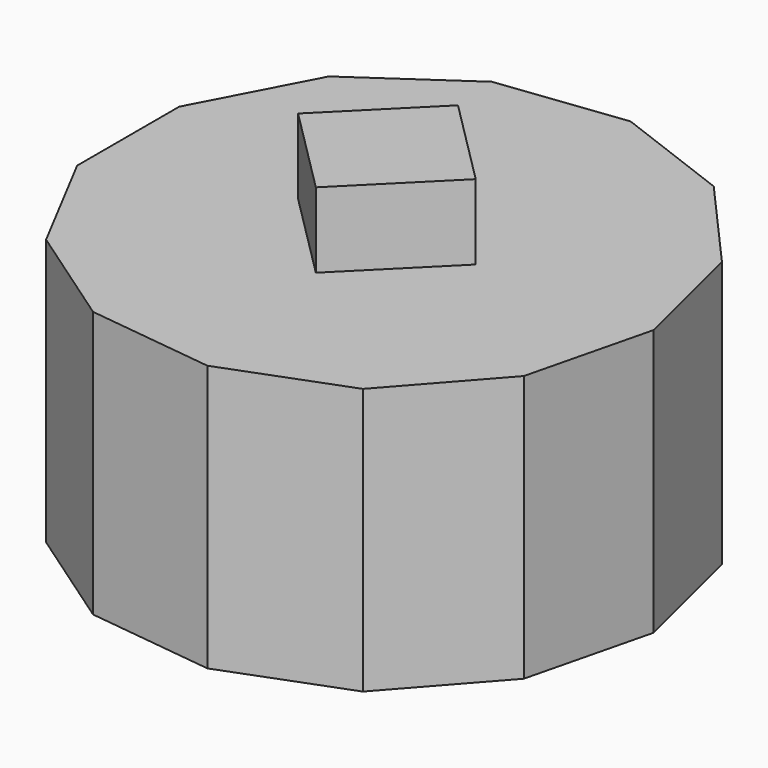
from build123d import *

# Parameters (mm, degrees)
PRISM_DEPTH    = 78
PRISM002_DEPTH = 100


with BuildPart() as prism:
    # Prism → Prism (new body)
    with BuildSketch(Plane.XY):
        Polygon((78, 0), (69.06557, 36.248407), (44.30905, 64.192742), (9.401861, 77.431292), (-27.659181, 72.931267), (-58.383838, 51.723567), (-75.733462, 18.666622), (-75.733462, -18.666622), (-58.383838, -51.723567), (-27.659181, -72.931267), (9.401861, -77.431292), (44.30905, -64.192742), (69.06557, -36.248407), align=None)
    extrude(amount=PRISM_DEPTH)


with BuildPart() as prism002:
    # Prism002 → Prism002 (new body)
    with BuildSketch(Plane.XY):
        Polygon((26, 0), (0, 26), (-26, 0), (0, -26), align=None)
    extrude(amount=PRISM002_DEPTH)


solid = Compound([prism.part, prism002.part])
